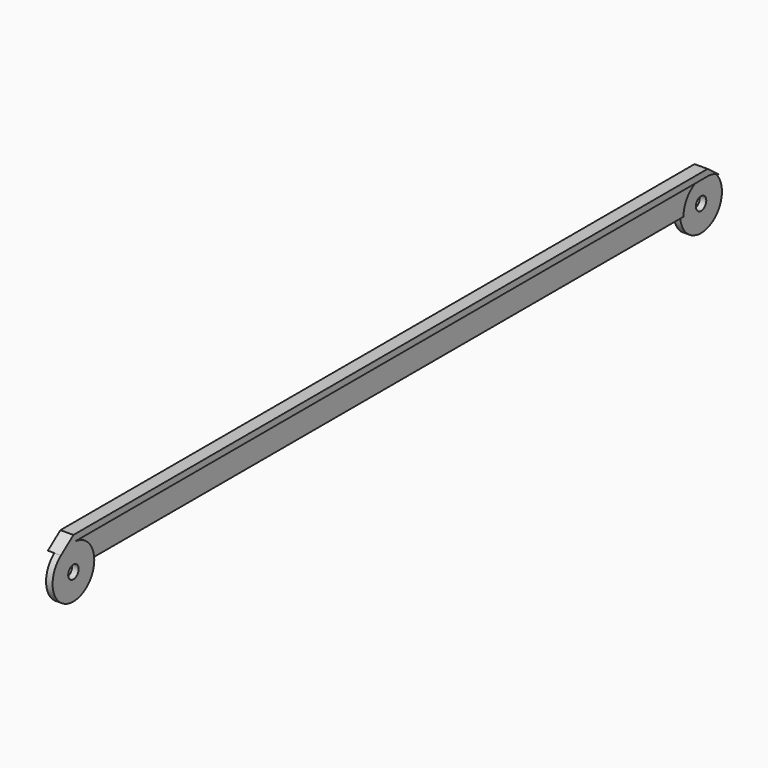
from build123d import *

# Parameters (mm, degrees)
F1_DEPTH = 2.5
F2_DEPTH = 1.25
F0_R     = 2.5
F3_DEPTH = 2.5
F4_DEPTH = 2.5


with BuildPart() as f1:
    # F0 (on Right) → F1 (new body, symmetric)
    with BuildSketch(Plane.YZ):
        with BuildLine():
            ThreePointArc((152.05, -2.5), (155.212278, -3.013167), (158.05, -4.5))
            Line((158.05, -4.5), (152.05, 0))
            Line((152.05, 0), (-152.05, 0))
            Line((-152.05, 0), (-158.05, -4.5))
            ThreePointArc((-158.05, -4.5), (-155.212278, -3.013167), (-152.05, -2.5))
            Line((-152.05, -2.5), (152.05, -2.5))
        make_face()
    extrude(amount=F1_DEPTH, both=True)



with BuildPart() as f2:
    # F0 (on Right) → F2 (new body, symmetric)
    with BuildSketch(Plane.YZ):
        with BuildLine():
            Line((-142.05, -12.5), (142.05, -12.5))
            ThreePointArc((142.05, -12.5), (144.978932, -5.428932), (152.05, -2.5))
            Line((152.05, -2.5), (-152.05, -2.5))
            ThreePointArc((-152.05, -2.5), (-144.978932, -5.428932), (-142.05, -12.5))
        make_face()
    extrude(amount=F2_DEPTH, both=True)


with BuildPart() as f1_1:
    add(f1.part)

    add(f2.part)  # F3 merges F2
    # F0 (on Right) → F3 (join)
    with BuildSketch(Plane.YZ):
        with BuildLine():
            ThreePointArc((-158.05, -4.5), (-156.522136, -21.444272), (-142.05, -12.5))
            ThreePointArc((-142.05, -12.5), (-144.978932, -5.428932), (-152.05, -2.5))
            ThreePointArc((-152.05, -2.5), (-155.212278, -3.013167), (-158.05, -4.5))
        make_face()
        with Locations((-152.05, -12.5)):
            Circle(F0_R, mode=Mode.SUBTRACT)
    extrude(amount=F3_DEPTH)

    # F0 (on Right) → F4 (join)
    with BuildSketch(Plane.YZ):
        with BuildLine():
            ThreePointArc((142.05, -12.5), (152.05, -22.5), (162.05, -12.5))
            ThreePointArc((162.05, -12.5), (160.994272, -8.027864), (158.05, -4.5))
            ThreePointArc((158.05, -4.5), (155.212278, -3.013167), (152.05, -2.5))
            ThreePointArc((152.05, -2.5), (144.978932, -5.428932), (142.05, -12.5))
        make_face()
        with Locations((152.05, -12.5)):
            Circle(F0_R, mode=Mode.SUBTRACT)
    extrude(amount=-F4_DEPTH)


solid = f1_1.part
